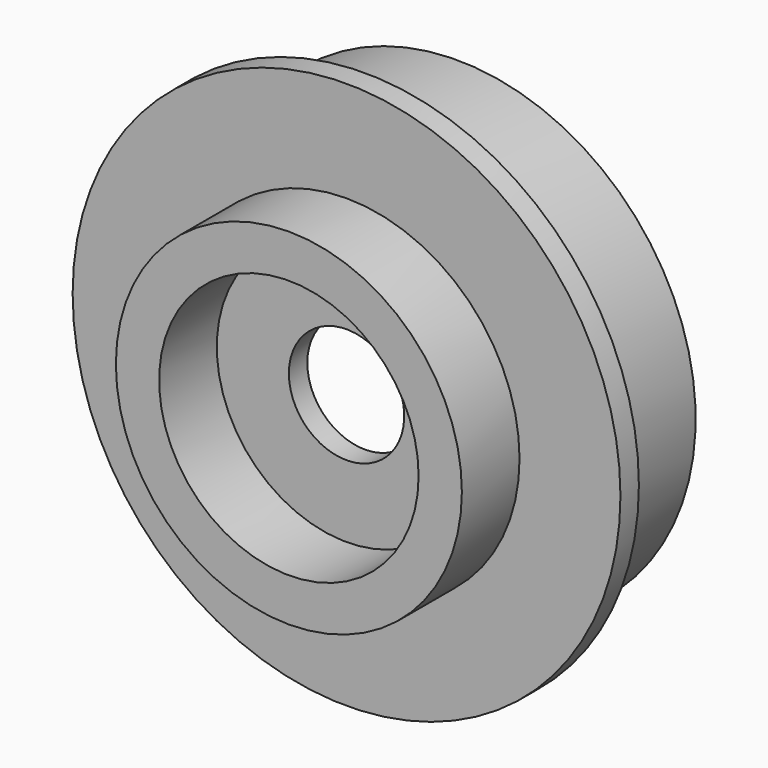
from build123d import *

# Parameters (mm, degrees)
F0_R     = 19.05
F0_R_2   = 14.2875
F1_DEPTH = 7.9375
F2_R     = 30.1625
F3_DEPTH = 15.24
F4_R     = 6.35
F5_DEPTH = 23.1785
F6_R     = 32.385
F6_R_2   = 26.2509
F7_DEPTH = 12.7
F8_R     = 22.86
F9_DEPTH = 12.7


with BuildPart() as f1:
    # F0 (on Front) → F1 (new body)
    with BuildSketch(Plane.XZ):
        Circle(F0_R)
        Circle(F0_R_2, mode=Mode.SUBTRACT)
    extrude(amount=F1_DEPTH)

    # F2 (on face) → F3 (join)
    with BuildSketch(Plane(origin=(0, 0, 0), x_dir=(-1, 0, 0), z_dir=(0, 1, 0))):
        Circle(F2_R)
    extrude(amount=F3_DEPTH)

    # F4 (on face) → F5 (cut, through all)
    with BuildSketch(Plane(origin=(0, 15.24, 0), x_dir=(-1, 0, 0), z_dir=(0, 1, 0))):
        Circle(F4_R)
    extrude(amount=-F5_DEPTH, mode=Mode.SUBTRACT)

    # F6 (on face) → F7 (cut)
    with BuildSketch(Plane(origin=(0, 15.24, 0), x_dir=(-1, 0, 0), z_dir=(0, 1, 0))):
        Circle(F6_R)
        Circle(F6_R_2, mode=Mode.SUBTRACT)
    extrude(amount=-F7_DEPTH, mode=Mode.SUBTRACT)

    # F8 (on face) → F9 (cut)
    with BuildSketch(Plane(origin=(0, 15.24, 0), x_dir=(-1, 0, 0), z_dir=(0, 1, 0))):
        Circle(F8_R)
    extrude(amount=-F9_DEPTH, mode=Mode.SUBTRACT)


solid = f1.part
